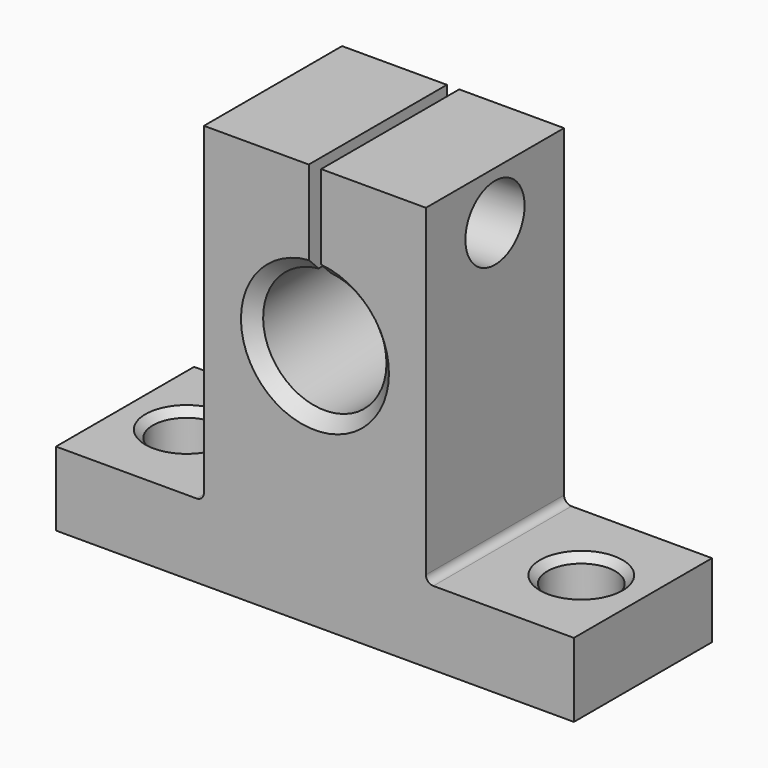
from build123d import *

# Parameters (mm, degrees)
F1_DEPTH      = 14
F2_R          = 2.75
F3_DEPTH      = 32.801
F4_SIZE       = 1
F5_R          = 0.6
F6_SIZE       = 0.6
F7_R          = 1.9
F8_DEPTH      = 20.501
F8_DEPTH_BACK = 21.501
F9_R          = 2.25
F10_DEPTH     = 9.5
F11_R         = 3
F12_DEPTH     = 4


with BuildPart() as f1:
    # F0 (on Front) → F1 (new body)
    with BuildSketch(Plane.XZ):
        with BuildLine():
            Line((-21, 0), (0, 0))
            Line((0, 0), (21, 0))
            Line((21, 0), (21, 6))
            Line((21, 6), (9, 6))
            Line((9, 6), (9, 32.8))
            Line((9, 32.8), (0.5, 32.8))
            Line((0.5, 32.8), (0.5, 24.9749371855))
            ThreePointArc((0.5, 24.9749371855), (0, 15), (-0.5, 24.9749371855))
            Line((-0.5, 24.9749371855), (-0.5, 32.8))
            Line((-0.5, 32.8), (-9, 32.8))
            Line((-9, 32.8), (-9, 6))
            Line((-9, 6), (-21, 6))
            Line((-21, 6), (-21, 0))
        make_face()
    extrude(amount=F1_DEPTH)

    # F2 (on face) → F3 (cut, through all)
    with BuildSketch(Plane(origin=(0, 0, 0), x_dir=(1, 0, 0), z_dir=(0, 0, -1))):
        with Locations((-16, 7)):
            Circle(F2_R)
        with Locations((16, 7)):
            Circle(F2_R)
    extrude(amount=-F3_DEPTH, mode=Mode.SUBTRACT)

    # F4
    f4_edges = [f1.edges().sort_by_distance(p)[0] for p in [
        (0, -14, 15),
        (0, 0, 15),
    ]]
    chamfer(f4_edges, length=F4_SIZE)

    # F5
    f5_edges = [f1.edges().sort_by_distance(p)[0] for p in [
        (9, -7, 6),
        (-9, -7, 6),
    ]]
    fillet(f5_edges, radius=F5_R)

    # F6
    f6_edges = [f1.edges().sort_by_distance(p)[0] for p in [
        (13.25, -7, 6),
        (-18.75, -7, 6),
    ]]
    chamfer(f6_edges, length=F6_SIZE)

    # F7 (on face) → F8 (cut, two sides)
    with BuildSketch(Plane.YZ.offset(-0.5)) as f8_sk:
        with Locations((-7, 28.8874685928)):
            Circle(F7_R)
    extrude(amount=-F8_DEPTH, mode=Mode.SUBTRACT)
    extrude(f8_sk.sketch, amount=F8_DEPTH_BACK, mode=Mode.SUBTRACT)

    # F9 (on face) → F10 (cut, through all)
    with BuildSketch(Plane.YZ.offset(9)):
        with Locations((-7, 28.8874685928)):
            Circle(F9_R)
    extrude(amount=-F10_DEPTH, mode=Mode.SUBTRACT)

    # F11 (on face) → F12 (cut)
    with BuildSketch(Plane.YZ.offset(9)):
        with Locations((-7, 28.8874685928)):
            Circle(F11_R)
    extrude(amount=-F12_DEPTH, mode=Mode.SUBTRACT)


solid = f1.part
